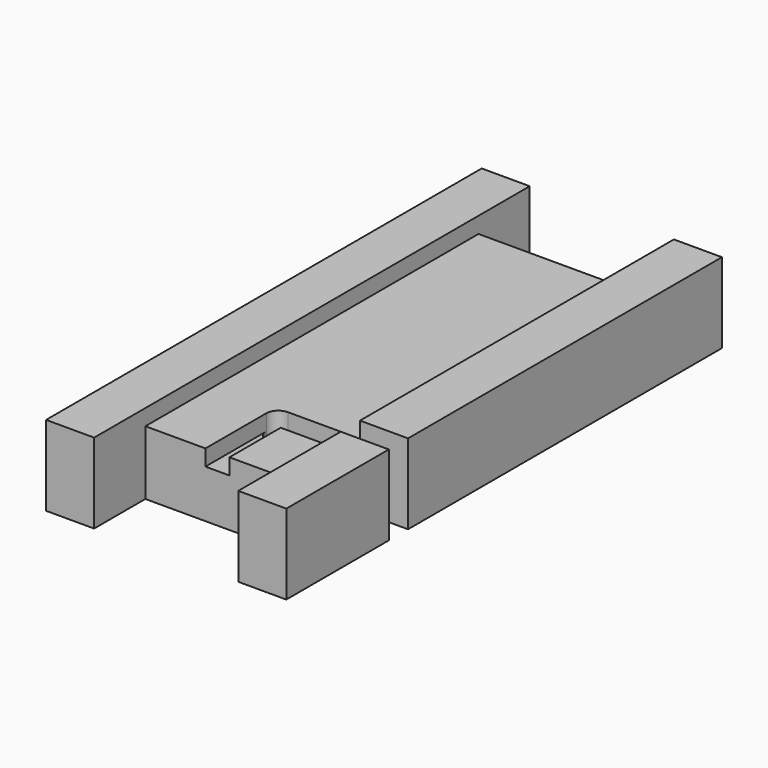
from build123d import *

# Parameters (mm, degrees)
F0_W     = 19.05
F0_H     = 33.02
F1_DEPTH = 6.35
F2_W     = 3.81
F2_H     = 6.35
F3_DEPTH = 5.08
F4_W     = 3.81
F4_H     = 6.35
F5_DEPTH = 5.08
F7_DEPTH = 2.54
F6_W     = 3.81
F6_H     = 1.905
F8_DEPTH = 6.35
F6_W_2   = 4.7625
F6_H_2   = 5.08
F9_DEPTH = 1.27


with BuildPart() as f1:
    # F0 (on Top) → F1 (new body)
    with BuildSketch(Plane.XY):
        Rectangle(F0_W, F0_H)
    extrude(amount=F1_DEPTH)

    # F2 (on face) → F3 (join)
    with BuildSketch(Plane.XZ.offset(16.51)):
        with Locations((-7.62, 3.175)):
            Rectangle(F2_W, F2_H)
        with Locations((7.62, 3.175)):
            Rectangle(F2_W, F2_H)
    extrude(amount=F3_DEPTH)

    # F4 (on face) → F5 (join)
    with BuildSketch(Plane(origin=(0, 16.51, 0), x_dir=(-1, 0, 0), z_dir=(0, 1, 0))):
        with Locations((-7.62, 3.175)):
            Rectangle(F4_W, F4_H)
        with Locations((7.62, 3.175)):
            Rectangle(F4_W, F4_H)
    extrude(amount=F5_DEPTH)

    # F6 (on face) → F7 (cut)
    with BuildSketch(Plane.XY.offset(6.35)):
        with BuildLine():
            Line((-0.9525, -16.51), (0.9525, -16.51))
            Line((0.9525, -16.51), (0.9525, -11.43))
            Line((0.9525, -11.43), (0, -11.43))
            ThreePointArc((0, -11.43), (-0.6735192091, -11.1510192091), (-0.9525, -10.4775))
            Line((-0.9525, -10.4775), (-0.9525, -16.51))
        make_face()
        with BuildLine():
            Line((0, -11.43), (0.9525, -11.43))
            Line((0.9525, -11.43), (0.9525, -10.4775))
            ThreePointArc((0.9525, -10.4775), (0.6735192091, -11.1510192091), (0, -11.43))
        make_face()
    extrude(amount=-F7_DEPTH, mode=Mode.SUBTRACT)

    # F6 (on face) → F8 (cut)
    with BuildSketch(Plane.XY.offset(6.35)):
        with BuildLine():
            Line((0, -10.4775), (0, -9.525))
            ThreePointArc((0, -9.525), (-0.6735192091, -9.8039807909), (-0.9525, -10.4775))
            Line((-0.9525, -10.4775), (0, -10.4775))
        make_face()
        with BuildLine():
            ThreePointArc((-0.9525, -10.4775), (-0.6735192091, -11.1510192091), (0, -11.43))
            Line((0, -11.43), (0, -10.4775))
            Line((0, -10.4775), (-0.9525, -10.4775))
        make_face()
        with BuildLine():
            ThreePointArc((0.9525, -10.4775), (0.6735192091, -9.8039807909), (0, -9.525))
            Line((0, -9.525), (0, -10.4775))
            Line((0, -10.4775), (0.9525, -10.4775))
        make_face()
        with BuildLine():
            Line((0, -10.4775), (0, -11.43))
            ThreePointArc((0, -11.43), (0.6735192091, -11.1510192091), (0.9525, -10.4775))
            Line((0.9525, -10.4775), (0, -10.4775))
        make_face()
        with BuildLine():
            Line((0.9525, -11.43), (5.715, -11.43))
            Line((5.715, -11.43), (5.715, -9.525))
            Line((5.715, -9.525), (0, -9.525))
            ThreePointArc((0, -9.525), (0.6735192091, -9.8039807909), (0.9525, -10.4775))
            Line((0.9525, -10.4775), (0.9525, -11.43))
        make_face()
        with Locations((7.62, -10.4775)):
            Rectangle(F6_W, F6_H)
        with BuildLine():
            Line((0, -11.43), (0.9525, -11.43))
            Line((0.9525, -11.43), (0.9525, -10.4775))
            ThreePointArc((0.9525, -10.4775), (0.6735192091, -11.1510192091), (0, -11.43))
        make_face()
    extrude(amount=-F8_DEPTH, mode=Mode.SUBTRACT)

    # F6 (on face) → F9 (cut)
    with BuildSketch(Plane.XY.offset(6.35)):
        with BuildLine():
            Line((0, -9.525), (5.715, -9.525))
            Line((5.715, -9.525), (5.715, 16.51))
            Line((5.715, 16.51), (-5.715, 16.51))
            Line((-5.715, 16.51), (-5.715, -16.51))
            Line((-5.715, -16.51), (-0.9525, -16.51))
            Line((-0.9525, -16.51), (-0.9525, -10.4775))
            ThreePointArc((-0.9525, -10.4775), (-0.6735192091, -9.8039807909), (0, -9.525))
        make_face()
        with Locations((3.33375, -13.97)):
            Rectangle(F6_W_2, F6_H_2)
    extrude(amount=-F9_DEPTH, mode=Mode.SUBTRACT)


solid = f1.part
